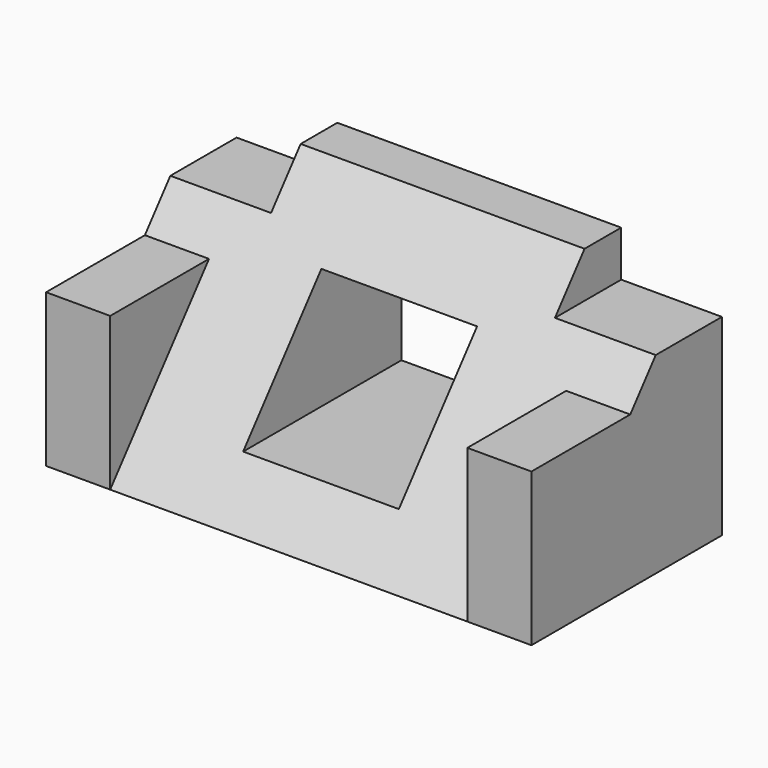
from build123d import *

# Parameters (mm, degrees)
PAD_DEPTH       = 26.5
SKETCH001_W     = 5
SKETCH001_H     = 11
POCKET_DEPTH    = 155.012627
SKETCH002_W     = 16.7
SKETCH002_H     = 7
PAD001_DEPTH    = 26
SKETCH004_W     = 13.225
SKETCH004_H     = 17
POCKET001_DEPTH = 26.001


with BuildPart() as part:
    # Sketch → Pad (new body, symmetric)
    with BuildSketch(Plane.YZ):
        Polygon((-5, 26), (0, 26), (0, 0), (-26, 0), align=None)
    extrude(amount=PAD_DEPTH, both=True)

    # Sketch001 (on Face2 of Pad) → Pocket (cut, through all)
    with BuildSketch(Plane.ZX):
        with Locations((23.5, 21)):
            Rectangle(SKETCH001_W, SKETCH001_H)
    pocket = extrude(amount=-POCKET_DEPTH, mode=Mode.SUBTRACT)

    # Mirrored: Pocket across Sketch001 H_Axis
    add(pocket.mirror(Plane.YZ), mode=Mode.SUBTRACT)

    # Sketch002 (on Face2 of Mirrored) → Pad001 (join)
    with BuildSketch(Plane.ZX):
        with Locations((8.35, 23)):
            Rectangle(SKETCH002_W, SKETCH002_H)
    pad001 = extrude(amount=-PAD001_DEPTH)

    # Mirrored001: Pad001 across Sketch002 H_Axis
    add(pad001.mirror(Plane.YZ))

    # Sketch004 (on Face2 of Mirrored001) → Pocket001 (cut, through all)
    with BuildSketch(Plane.ZX):
        with Locations((12.058088, 0)):
            Rectangle(SKETCH004_W, SKETCH004_H)
    extrude(amount=-POCKET001_DEPTH, mode=Mode.SUBTRACT)


solid = part.part
